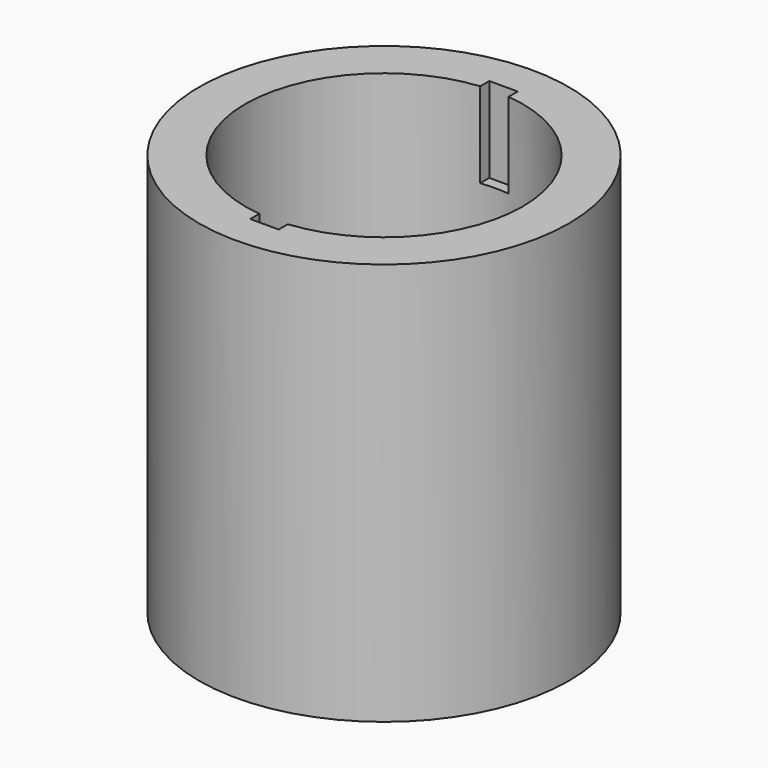
from build123d import *

# Parameters (mm, degrees)
F0_R     = 41.275
F1_DEPTH = 89.916
F2_R     = 30.988
F3_DEPTH = 80.264
F5_DEPTH = 19.05


with BuildPart() as f1:
    # F0 (on Top) → F1 (new body)
    with BuildSketch(Plane.XY):
        Circle(F0_R)
    extrude(amount=F1_DEPTH)

    # F2 (on face) → F3 (cut)
    with BuildSketch(Plane.XY.offset(89.916)):
        Circle(F2_R)
    extrude(amount=-F3_DEPTH, mode=Mode.SUBTRACT)

    # F4 (on face) → F5 (cut)
    with BuildSketch(Plane.XY.offset(89.916)):
        Polygon((3.175, 33.36925), (0, 33.36925), (-3.175, 33.36925), (-3.175, 0), (-3.175, -33.36925), (0, -33.36925), (3.175, -33.36925), (3.175, 0), align=None)
    extrude(amount=-F5_DEPTH, mode=Mode.SUBTRACT)


solid = f1.part
